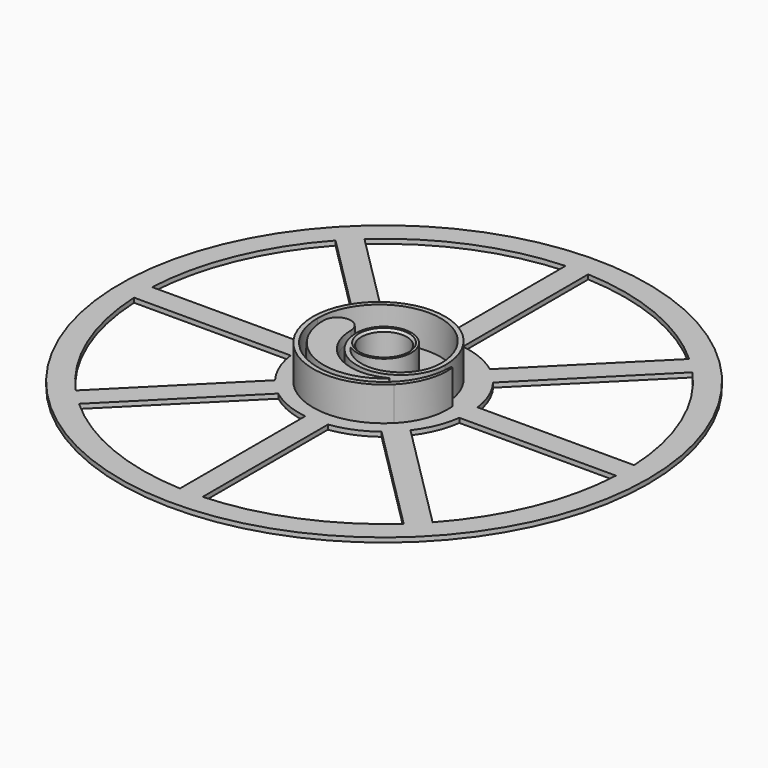
from build123d import *

# Parameters (mm, degrees)
SKETCH012_R           = 93
PAD008_DEPTH          = 1.6
POCKET003_DEPTH       = 527.6981773351
POLARPATTERN001_COUNT = 4
SKETCH015_R           = 8
POCKET004_DEPTH       = 1.601
SKETCH013_R           = 8
PAD009_DEPTH          = 12
CHAMFER005_SIZE2      = 0.2
CHAMFER005_SIZE       = 3
CHAMFER006_SIZE       = 0.8


with BuildPart() as part:
    # Sketch012 → Pad008 (new body)
    with BuildSketch(Plane.XY):
        Circle(SKETCH012_R)
    extrude(amount=PAD008_DEPTH)

    # Sketch014 → Pocket003 (cut, through all)
    with BuildSketch(Plane.XY):
        with BuildLine():
            Line((-29.7321374946, 4), (-84.9058301885, 4))
            ThreePointArc((-62.8659154133, 57.2090611638), (-78.5297602635, 32.528091751), (-84.9058301885, 4))
            Line((-62.8659154133, 57.2090611638), (-23.8522231664, 18.1953689169))
            ThreePointArc((-23.8522231664, 18.1953689169), (-27.7163859753, 11.480502971), (-29.7321374946, 4))
        make_face()
        with BuildLine():
            Line((-18.1953689169, 23.8522231664), (-57.2090611638, 62.8659154133))
            ThreePointArc((-4, 84.9058301885), (-32.528091751, 78.5297602635), (-57.2090611638, 62.8659154133))
            Line((-4, 29.7321374946), (-4, 84.9058301885))
            ThreePointArc((-4, 29.7321374946), (-11.480502971, 27.7163859753), (-18.1953689169, 23.8522231664))
        make_face()
    pocket003 = extrude(amount=POCKET003_DEPTH, mode=Mode.SUBTRACT)

    # PolarPattern001: Pocket003 ×4 about axis
    polarpattern001_axis = Axis((0, 0, 0), (0, 0, 1))
    for i in range(1, POLARPATTERN001_COUNT):
        add(pocket003.rotate(polarpattern001_axis, i * 360 / POLARPATTERN001_COUNT), mode=Mode.SUBTRACT)

    # Sketch015 → Pocket004 (cut, through all)
    with BuildSketch(Plane.XY.offset(1.6)):
        Circle(SKETCH015_R)
    extrude(amount=-POCKET004_DEPTH, mode=Mode.SUBTRACT)

    # Sketch013 → Pad009 (join)
    with BuildSketch(Plane.XY.offset(1.6)):
        with BuildLine():
            ThreePointArc((-23.4, 0), (0, -23.4), (23.4, 0))
            ThreePointArc((23.9970767333, 0), (23.6985383667, 0.2704222444), (23.4, 0))
            ThreePointArc((17.6776695297, -17.6776695297), (22.8235419267, -9.5488497004), (23.9970767333, 0))
            ThreePointArc((-25, 0), (-9.5670858091, -23.0969883128), (17.6776695297, -17.6776695297))
            ThreePointArc((21.5, 0), (-1.75, 23.25), (-25, 0))
            ThreePointArc((-9.6, -2.3e-09), (5.9500000012, -15.5499999986), (21.5, 0))
            ThreePointArc((-5.6336134454, -7.7731846465), (8.5511019487, 4.3633307762), (-9.6, 0))
            ThreePointArc((-5.6336134454, -7.7731846465), (10.0127018373, -13.3452970661), (19.9, 0))
            ThreePointArc((19.9, 0), (-1.75, 21.65), (-23.4, 0))
        make_face()
        Circle(SKETCH013_R, mode=Mode.SUBTRACT)
        with BuildLine():
            ThreePointArc((-11.5, 0), (-16.5, 5), (-21.5, 0))
            ThreePointArc((-21.5, 0), (-8.6937875889, -19.6638769667), (14.4691216149, -15.90265763))
            ThreePointArc((14.4691216149, -15.90265763), (14.5126122143, -15.5081737413), (14.1266540458, -15.4157331507))
            ThreePointArc((-11.5, 0), (-3.0449954664, -14.9530116204), (14.1266540458, -15.4157331507))
        make_face()
    extrude(amount=PAD009_DEPTH)

    # Chamfer005
    chamfer005_edges = [part.edges().sort_by_distance(p)[0] for p in [
        (-8.693788, -19.663877, 13.6),
    ]]
    chamfer005_side = part.faces().sort_by_distance((-8.693788, -19.663877, 7.6))[0]
    chamfer(chamfer005_edges, length=CHAMFER005_SIZE, length2=CHAMFER005_SIZE2, reference=chamfer005_side)

    # Chamfer006
    chamfer006_edges = [part.edges().sort_by_distance(p)[0] for p in [
        (-8, 0, 13.6),
    ]]
    chamfer(chamfer006_edges, length=CHAMFER006_SIZE)


solid = part.part
